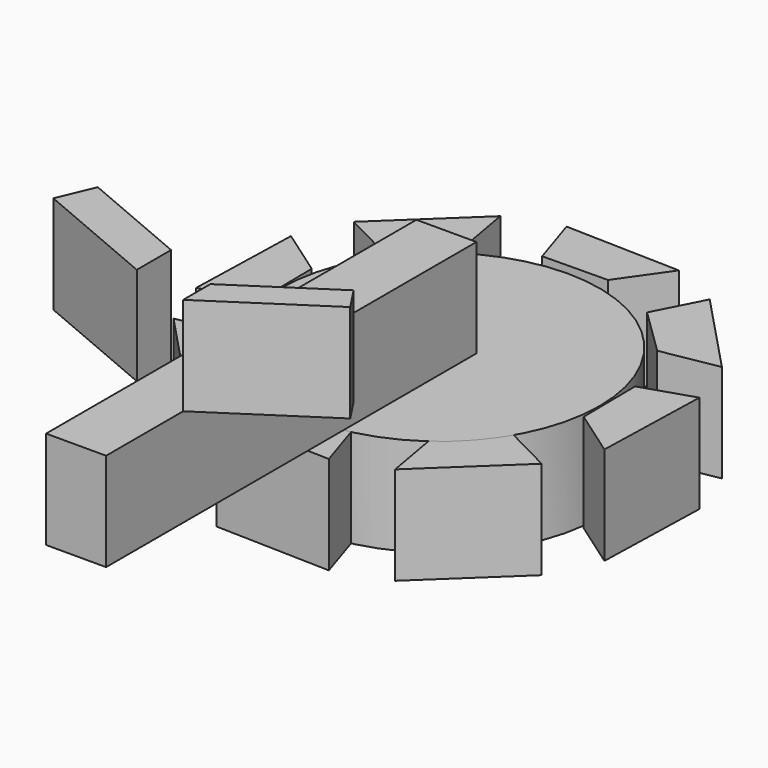
from build123d import *

# Parameters (mm, degrees)
F2_DEPTH = 25.4
F0_R     = 41.289093
F3_DEPTH = 25.4
F4_W     = 15.537881
F4_H     = 119.8714
F5_DEPTH = 25.4
F7_DEPTH = 25.4


with BuildPart() as f2:
    # F1 (on Top) → F2 (new body)
    with BuildSketch(Plane.XY):
        Polygon((26.334228, -49.934298), (47.919661, -29.500088), (35.544012, -23.168363), (23.743974, -35.256207), align=None)
        Polygon((53.929992, -16.687769), (54.744029, 13.024605), (41.515918, 8.750905), (41.719428, -8.140378), align=None)
        Polygon((16.687769, 53.929992), (-13.024605, 54.744029), (-8.750905, 41.515918), (8.140378, 41.719428), align=None)
        Polygon((-26.334228, 49.934298), (-47.919661, 29.500088), (-35.544012, 23.168363), (-23.743974, 35.256207), align=None)
        Polygon((-53.929992, 16.687769), (-54.744029, -13.024605), (-41.515918, -8.750905), (-41.719428, 8.140378), align=None)
        Polygon((-49.934298, -26.334228), (-29.500088, -47.919661), (-23.168363, -35.544012), (-35.256207, -23.743974), align=None)
        Polygon((-16.687769, -53.929992), (13.024605, -54.744029), (8.750905, -41.515918), (-8.140378, -41.719428), align=None)
        Polygon((29.500088, 47.919661), (23.168363, 35.544012), (35.256207, 23.743974), (49.934298, 26.334228), align=None)
    extrude(amount=F2_DEPTH)


with BuildPart() as f3:
    # F0 (on Top) → F3 (new body)
    with BuildSketch(Plane.XY):
        with Locations((0, -2.446349)):
            Circle(F0_R)
    extrude(amount=F3_DEPTH)


with BuildPart() as f5:
    # F4 (on face) → F5 (new body)
    with BuildSketch(Plane.XY.offset(25.4)):
        with Locations((-0.325354, -59.9357)):
            Rectangle(F4_W, F4_H)
    extrude(amount=F5_DEPTH)


with BuildPart() as f7:
    # F6 (on face) → F7 (new body)
    with BuildSketch(Plane.XY.offset(50.8)):
        Polygon((31.752183, -70.138319), (7.443586, -86.110997), (7.443586, -94.933805), (35.801264, -76.300559), align=None)
        Polygon((-8.094295, -90.522401), (-8.094295, -79.41404), (-36.842734, -67.194842), (-40.841761, -76.603462), align=None)
    extrude(amount=F7_DEPTH)


solid = Compound([f2.part, f3.part, f5.part, f7.part])
